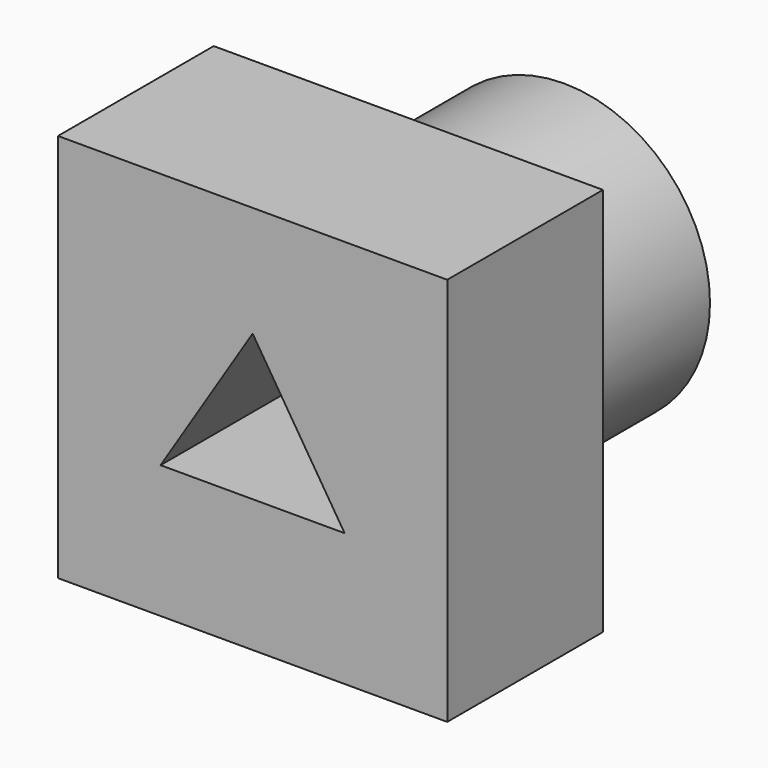
from build123d import *

# Parameters (mm, degrees)
F0_W     = 50.8
F0_H     = 50.8
F0_R     = 19.05
F1_DEPTH = 25.4
F2_DEPTH = 25.4


with BuildPart() as f1:
    # F0 (on Front) → F1 (new body)
    with BuildSketch(Plane.XZ):
        with Locations((-12.006546, 1.62563)):
            Rectangle(F0_W, F0_H)
        with Locations((-12.006546, 1.62563)):
            Circle(F0_R, mode=Mode.SUBTRACT)
        with Locations((-12.006546, 1.62563)):
            Circle(F0_R)
        Polygon((0, -6.445928), (-24.020746, -6.445928), (-12.006546, 12.581361), align=None, mode=Mode.SUBTRACT)
    extrude(amount=F1_DEPTH)

    # F0 (on Front) → F2 (join)
    with BuildSketch(Plane.XZ):
        with Locations((-12.006546, 1.62563)):
            Circle(F0_R)
        Polygon((0, -6.445928), (-24.020746, -6.445928), (-12.006546, 12.581361), align=None, mode=Mode.SUBTRACT)
    extrude(amount=-F2_DEPTH)


solid = f1.part
